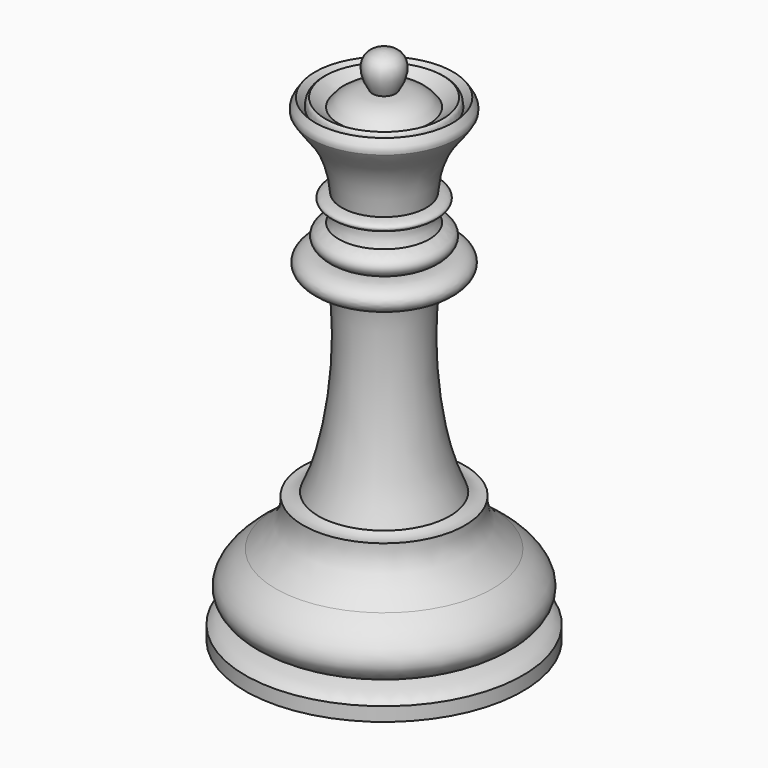
from build123d import *


with BuildPart() as f1:
    # F0 (on Front) → F1 (revolve)
    with BuildSketch(Plane.XZ):
        with BuildLine():
            Line((-10, 0), (0, 0))
            Line((0, 0), (0, 37.448112))
            add(Edge.make_bspline(
                [(-0.839009, 34.919925), (-1.585505, 36.027934), (-1.61837, 37.389468), (0, 37.448112)],
                knots=[0, 0, 0, 0, 2.663769, 2.663769, 2.663769, 2.663769], degree=3))
            add(Edge.make_bspline(
                [(-3.267221, 33.807825), (-2.754546, 34.563109), (-1.843727, 34.90584), (-0.839009, 34.919925)],
                knots=[0, 0, 0, 0, 2.670764, 2.670764, 2.670764, 2.670764], degree=3))
            add(Edge.make_bspline(
                [(-4.223624, 34.42226), (-3.871943, 34.117088), (-3.623111, 33.915207), (-3.267221, 33.807825)],
                knots=[0, 0, 0, 0, 1.136766, 1.136766, 1.136766, 1.136766], degree=3))
            add(Edge.make_bspline(
                [(-4.469288, 33.807825), (-4.458811, 34.1077), (-4.397776, 34.333058), (-4.223624, 34.42226)],
                knots=[0, 0, 0, 0, 0.661725, 0.661725, 0.661725, 0.661725], degree=3))
            add(Edge.make_bspline(
                [(-4.965865, 34.42226), (-4.721728, 34.243852), (-4.641913, 33.976242), (-4.469288, 33.807825)],
                knots=[0, 0, 0, 0, 0.790012, 0.790012, 0.790012, 0.790012], degree=3))
            add(Edge.make_bspline(
                [(-5.29561, 33.517495), (-5.374325, 33.877648), (-5.211699, 34.07206), (-4.965865, 34.42226)],
                knots=[0, 0, 0, 0, 0.962981, 0.962981, 0.962981, 0.962981], degree=3))
            add(Edge.make_bspline(
                [(-3.039973, 28.40323), (-3.326942, 31.619392), (-4.566602, 32.203689), (-5.29561, 33.517495)],
                knots=[0, 0, 0, 0, 5.589598, 5.589598, 5.589598, 5.589598], degree=3))
            add(Edge.make_bspline(
                [(-3.039973, 27.576907), (-4.201023, 27.896956), (-3.929623, 28.313277), (-3.039973, 28.40323)],
                knots=[0, 0, 0, 0, 0.826323, 0.826323, 0.826323, 0.826323], degree=3))
            add(Edge.make_bspline(
                [(-3.267221, 26.482588), (-3.031106, 26.816627), (-3.057455, 27.19079), (-3.039973, 27.576907)],
                knots=[0, 0, 0, 0, 1.117665, 1.117665, 1.117665, 1.117665], degree=3))
            add(Edge.make_bspline(
                [(-3.267221, 24.80761), (-3.903955, 24.939667), (-4.930988, 25.85209), (-3.267221, 26.482588)],
                knots=[0, 0, 0, 0, 1.674978, 1.674978, 1.674978, 1.674978], degree=3))
            add(Edge.make_bspline(
                [(-3.267221, 22.848031), (-6.191969, 23.149369), (-5.534724, 25.099199), (-3.267221, 24.80761)],
                knots=[0, 0, 0, 0, 1.959579, 1.959579, 1.959579, 1.959579], degree=3))
            add(Edge.make_bspline(
                [(-4.737284, 9.397812), (-2.682271, 13.914254), (-2.698604, 20.918837), (-3.267221, 22.848031)],
                knots=[0, 0, 0, 0, 13.530316, 13.530316, 13.530316, 13.530316], degree=3))
            add(Edge.make_bspline(
                [(-5.829204, 9.159469), (-5.381533, 9.069935), (-5.023397, 9.219158), (-4.737284, 9.397812)],
                knots=[0, 0, 0, 0, 1.11763, 1.11763, 1.11763, 1.11763], degree=3))
            add(Edge.make_bspline(
                [(-7.816141, 5.785964), (-6.714598, 6.732099), (-5.693649, 7.574093), (-5.829204, 9.159469)],
                knots=[0, 0, 0, 0, 3.915157, 3.915157, 3.915157, 3.915157], degree=3))
            add(Edge.make_bspline(
                [(-8.304415, 1.804652), (-10.922704, 3.140785), (-9.151917, 4.881727), (-7.816141, 5.785964)],
                knots=[0, 0, 0, 0, 4.011142, 4.011142, 4.011142, 4.011142], degree=3))
            add(Edge.make_bspline(
                [(-10, 1), (-9.589639, 1.549067), (-8.933056, 1.598808), (-8.304415, 1.804652)],
                knots=[0, 0, 0, 0, 1.876825, 1.876825, 1.876825, 1.876825], degree=3))
            Line((-10, 1), (-10, 0))
        make_face()
    revolve(axis=Axis((0, 0, 18.724056), (0, 0, -1)))


solid = f1.part
